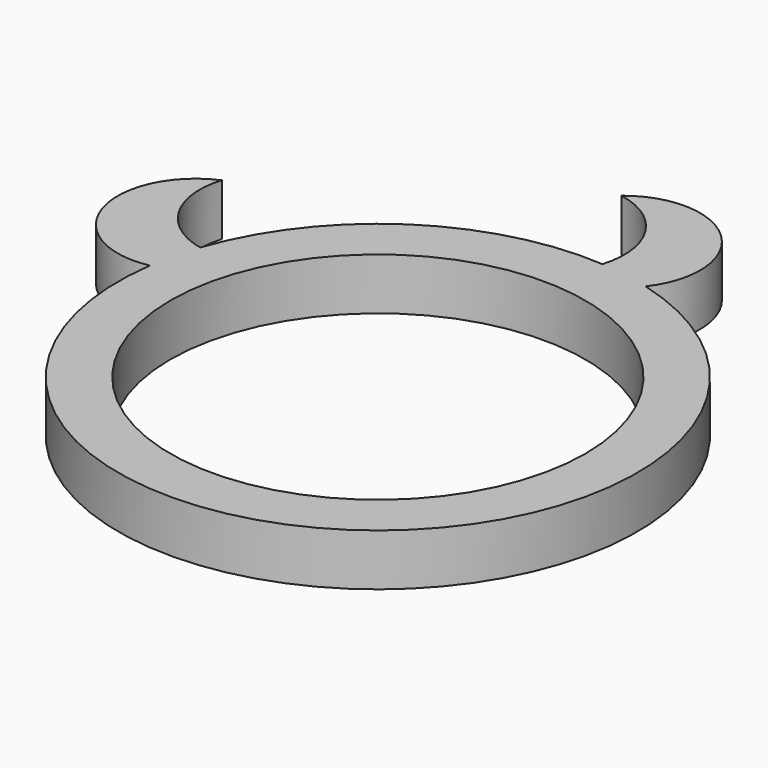
from build123d import *

# Parameters (mm, degrees)
CYLINDER004_R          = 1.5
CYLINDER004_DEPTH      = 1
CYLINDER002_R          = 1.5
CYLINDER002_DEPTH      = 1
CUT001_PLACEMENT_ANGLE = 318
MIRROR_PLACEMENT_ANGLE = 32
CYLINDER001_R          = 4
CYLINDER001_DEPTH      = 10
CYLINDER_R             = 5
CYLINDER_DEPTH         = 1


with BuildPart() as cylinder004:
    # Cylinder004 → Cylinder004 (new body)
    with BuildSketch(Plane(origin=(-5.5, 3.25, 0), x_dir=(1, 0, 0), z_dir=(0, 0, 1))):
        Circle(CYLINDER004_R)
    extrude(amount=CYLINDER004_DEPTH)


with BuildPart() as cut001:
    # Cylinder002 → Cylinder002 (new body)
    with BuildSketch(Plane(origin=(-5.5, 2, 0), x_dir=(1, 0, 0), z_dir=(0, 0, 1))):
        Circle(CYLINDER002_R)
    extrude(amount=CYLINDER002_DEPTH)

    # Cut001: cut Cylinder004
    add(cylinder004.part, mode=Mode.SUBTRACT)


with BuildPart() as cut001_1:
    # Cut001 placement: moved
    add(cut001.part.moved(Location((-2.5, -3, 0))).rotate(Axis((-2.5, -3, 0), (0, 0, 1)), CUT001_PLACEMENT_ANGLE))


with BuildPart() as cut001_mirrored:
    # Mirror: instance of Cut001
    add(cut001_1.part.mirror(Plane(origin=(-5.416318, 1.980722, 0), x_dir=(0.264078, -0.964501, 0), z_dir=(0.964501, 0.264078, 0))))


with BuildPart() as cut001_mirrored_1:
    # Mirror placement: moved
    add(cut001_mirrored.part.moved(Location((6, 7, 0))).rotate(Axis((6, 7, 0), (0, 0, 1)), MIRROR_PLACEMENT_ANGLE))


with BuildPart() as cylinder001:
    # Cylinder001 → Cylinder001 (new body)
    with BuildSketch(Plane.XY.offset(-5)):
        Circle(CYLINDER001_R)
    extrude(amount=CYLINDER001_DEPTH)


with BuildPart() as cut:
    # Cylinder → Cylinder (new body)
    with BuildSketch(Plane.XY):
        Circle(CYLINDER_R)
    extrude(amount=CYLINDER_DEPTH)

    # Cut: cut Cylinder001
    add(cylinder001.part, mode=Mode.SUBTRACT)


with BuildPart() as fusion:
    # Fusion base: copy of Cut001
    add(cut001_1.part)

    # Fusion: union Cut001 (mirrored), Cut
    add(cut001_mirrored_1.part)
    add(cut.part)


solid = fusion.part
